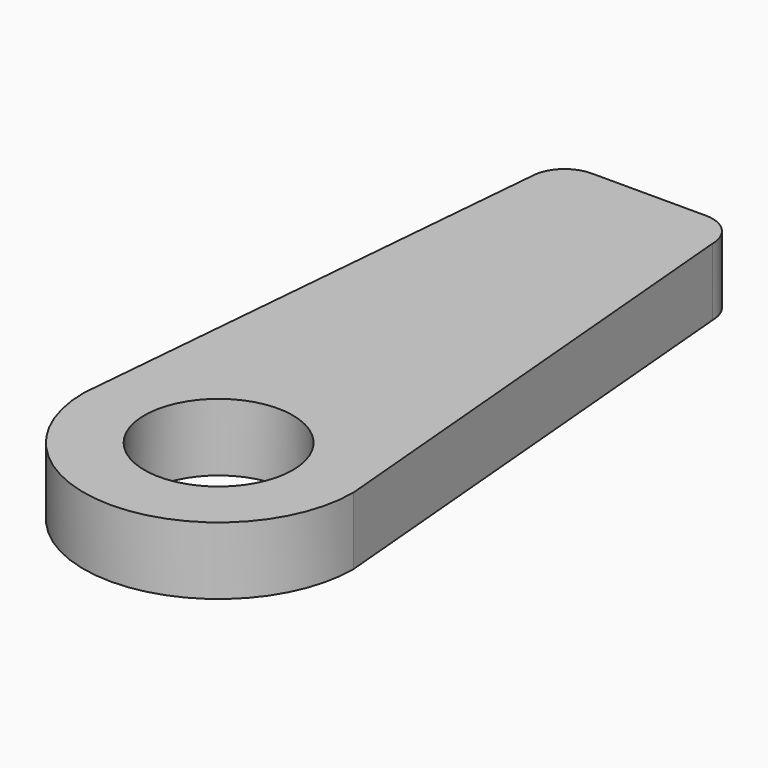
from build123d import *

# Parameters (mm, degrees)
SKETCH_R  = 2.2
PAD_DEPTH = 2


with BuildPart() as part:
    # Sketch → Pad (new body)
    with BuildSketch(Plane.XY):
        with BuildLine():
            ThreePointArc((-4, 0), (0, -4), (4, 0))
            Line((2.692664, 14.94292), (4, 0))
            ThreePointArc((2.692664, 14.94292), (2.399771, 15.650027), (1.692664, 15.94292))
            Line((1.692664, 15.94292), (0, 15.94292))
            Line((-1.692664, 15.94292), (0, 15.94292))
            ThreePointArc((-1.692664, 15.94292), (-2.399771, 15.650027), (-2.692664, 14.94292))
            Line((-4, 0), (-2.692664, 14.94292))
        make_face()
        Circle(SKETCH_R, mode=Mode.SUBTRACT)
    extrude(amount=PAD_DEPTH)


solid = part.part
